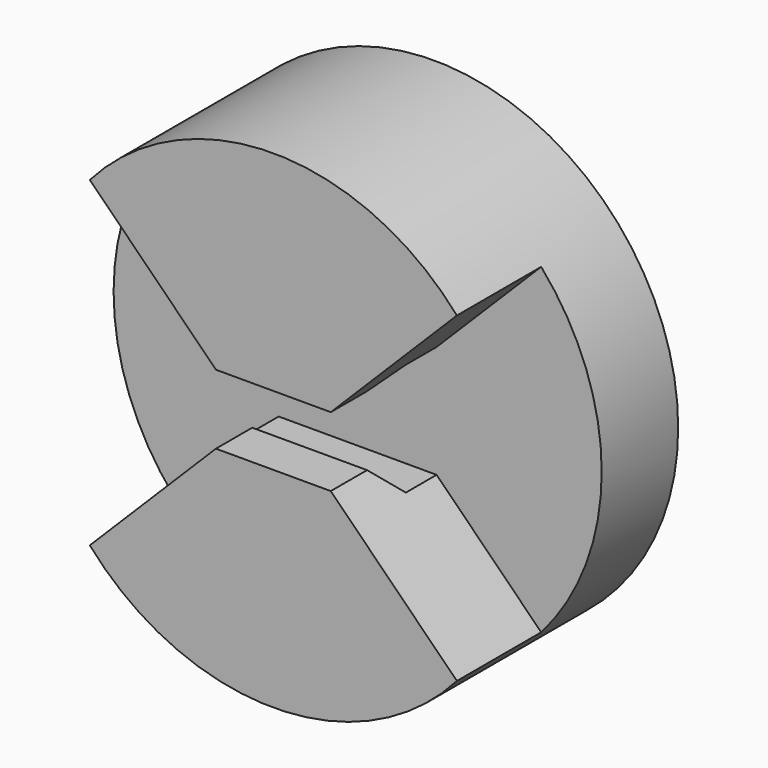
from build123d import *

# Parameters (mm, degrees)
F0_R     = 107.95
F1_DEPTH = 88.9
F3_DEPTH = 46.609
F5_DEPTH = 100


with BuildPart() as f1:
    # F0 (on Front) → F1 (new body)
    with BuildSketch(Plane.XZ):
        Circle(F0_R)
    extrude(amount=-F1_DEPTH)

    # F2 (on Front) → F3 (cut)
    with BuildSketch(Plane.XZ):
        Polygon((25.4, 15.367), (-25.4, 15.367), (-112.20568, 102.17268), (-112.20568, -81.354253), (-99.756101, -89.723101), (-25.4, -15.367), (25.4, -15.367), (112.291815, -102.258815), (115.95138, 105.91838), align=None)
    extrude(amount=-F3_DEPTH, mode=Mode.SUBTRACT)

    # F4 (on Right) → F5 (cut, symmetric)
    with BuildSketch(Plane.YZ):
        Polygon((46.609, 24.892), (29.599, 24.892), (20.074, 15.367), (-10.548349, 15.367), (-10.548349, -15.017238), (20.074, -15.367), (29.599, -24.892), (46.609, -24.892), align=None)
    extrude(amount=F5_DEPTH, both=True, mode=Mode.SUBTRACT)


solid = f1.part
